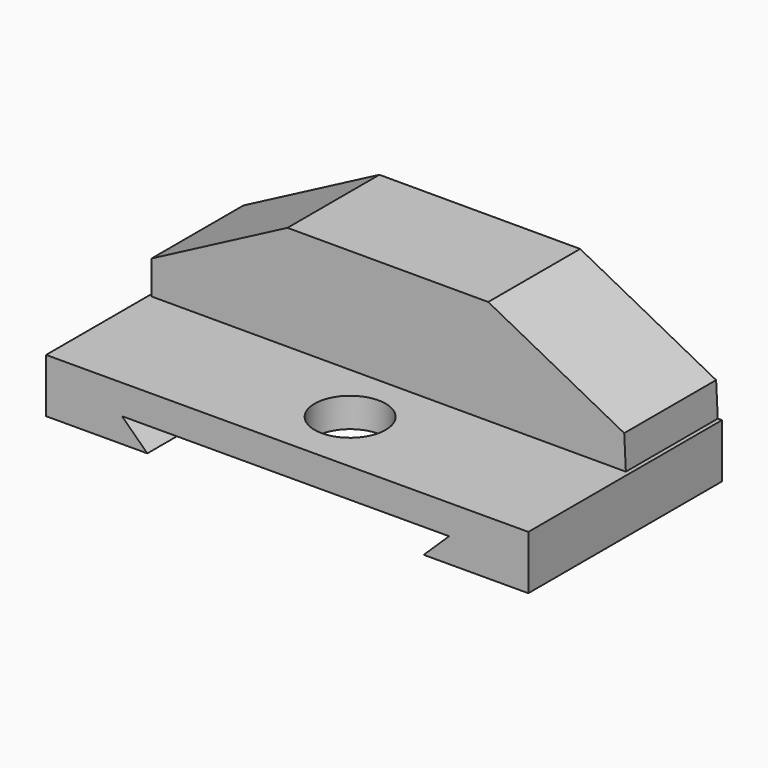
from build123d import *

# Parameters (mm, degrees)
F2_DEPTH = 11.938
F3_DEPTH = 25.4
F5_DEPTH = 72.644
F6_R     = 7.860553
F7_DEPTH = 35.306


with BuildPart() as f2:
    # F1 (on Top) → F2 (new body)
    with BuildSketch(Plane.XY):
        Polygon((50.910734, 0), (-55.442028, 0), (-55.442028, -53.830672), (50.910734, -53.498318), align=None)
    extrude(amount=F2_DEPTH)

    # F0 (on Front) → F3 (join)
    with BuildSketch(Plane.XZ):
        Polygon((-54.879387, 19.324376), (-54.879387, 0), (50.584481, 0), (49.630058, 19.324376), (19.565694, 35.072376), (-24.815029, 35.072376), align=None)
    extrude(amount=F3_DEPTH)

    # F4 (on Front) → F5 (cut)
    with BuildSketch(Plane.XZ):
        Polygon((33.436544, 5.434085), (-38.706463, 5.434085), (-33.109158, 0), (27.839245, 0), align=None)
    extrude(amount=F5_DEPTH, mode=Mode.SUBTRACT)

    # F6 (on Top) → F7 (cut)
    with BuildSketch(Plane.XY):
        with Locations((0, -39.10695)):
            Circle(F6_R)
    extrude(amount=F7_DEPTH, mode=Mode.SUBTRACT)


solid = f2.part
